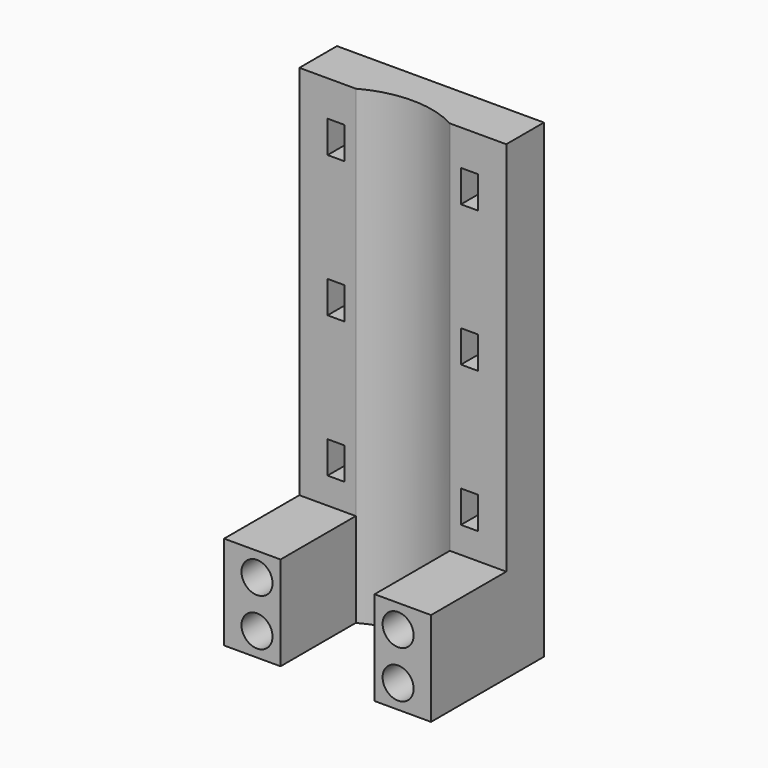
from build123d import *

# Parameters (mm, degrees)
F1_DEPTH      = 10
F2_W          = 22
F2_H          = 5
F3_DEPTH      = 40
F4_W          = 1.8184431829
F4_H          = 3.4095803276
F4_R          = 1.65
F5_DEPTH      = 25
F5_DEPTH_BACK = 25
F7_DEPTH      = 50.001


with BuildPart() as f1:
    # F0 (on Top) → F1 (new body)
    with BuildSketch(Plane.XY):
        Polygon((0, 15), (0, 0), (6, 0), (6, 10), (16, 10), (16, 0), (22, 0), (22, 15), align=None)
    extrude(amount=F1_DEPTH)

    # F2 (on face) → F3 (join)
    with BuildSketch(Plane.XY.offset(10)):
        with Locations((11, 12.5)):
            Rectangle(F2_W, F2_H)
    extrude(amount=F3_DEPTH)

    # F4 (on face) → F5 (cut, two sides)
    with BuildSketch(Plane.XZ.offset(-10)) as f5_sk:
        with Locations((3.9092215914, 14.5157719962)):
            Rectangle(F4_W, F4_H)
        with Locations((18.0907784086, 14.5157719962)):
            Rectangle(F4_W, F4_H)
        with Locations((18.5, 2.5)):
            Circle(F4_R)
        with Locations((3.5, 2.5)):
            Circle(F4_R)
        with Locations((18.0907784086, 29.5157719962)):
            Rectangle(F4_W, F4_H)
        with Locations((18.0907784086, 44.5157719962)):
            Rectangle(F4_W, F4_H)
        with Locations((3.9092215914, 29.5157719962)):
            Rectangle(F4_W, F4_H)
        with Locations((3.9092215914, 44.5157719962)):
            Rectangle(F4_W, F4_H)
        with Locations((18.5, 7.5)):
            Circle(F4_R)
        with Locations((3.5, 7.5)):
            Circle(F4_R)
    extrude(amount=-F5_DEPTH, mode=Mode.SUBTRACT)
    extrude(f5_sk.sketch, amount=F5_DEPTH_BACK, mode=Mode.SUBTRACT)

    # F6 (on face) → F7 (cut, through all)
    with BuildSketch(Plane.XY.offset(50)):
        with BuildLine():
            Line((6, 10), (16, 10))
            ThreePointArc((16, 10), (11, 11.2785394519), (6, 10))
        make_face()
    extrude(amount=-F7_DEPTH, mode=Mode.SUBTRACT)


solid = f1.part
